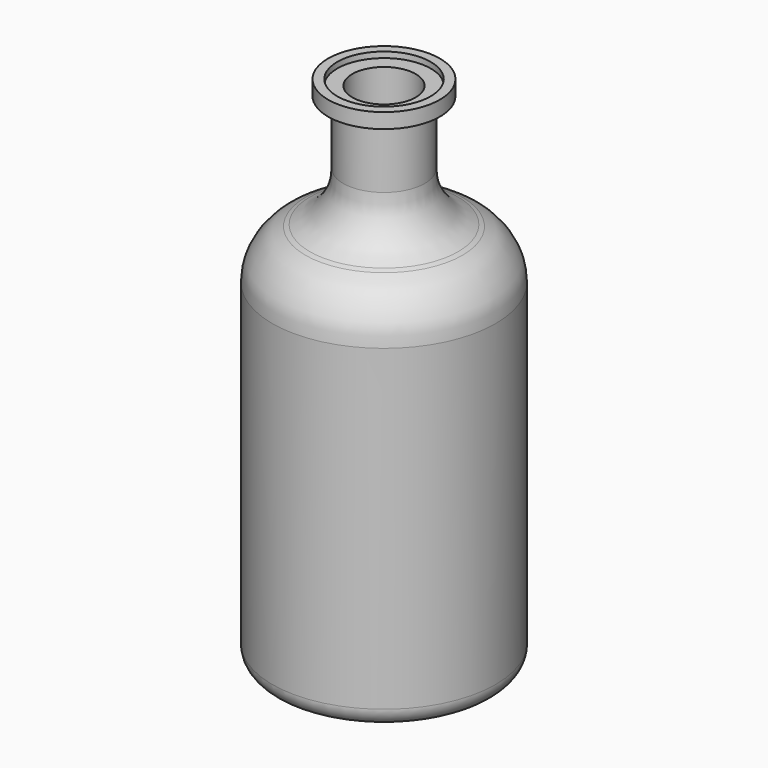
from build123d import *

# Parameters (mm, degrees)
F2_R = 14.7170458762
F3_R = 5.08
F4_T = -2.54


with BuildPart() as f1:
    # F0 (on Front) → F1 (revolve)
    with BuildSketch(Plane.XZ):
        Polygon((0, -76.023183763), (0, 66.5910243988), (-15.4687426984, 66.5910243988), (-15.4687426984, 62.4408759177), (-11.3185923547, 62.4408759177), (-11.3185923547, 34.8989777267), (-30.9374798089, 26.9759688526), (-30.9374798089, -76.023183763), align=None)
    revolve(axis=Axis((0, 0, -4.7160796821), (0, 0, -1)))

    # F2
    f2_edges = [f1.edges().sort_by_distance(p)[0] for p in [
        (30.93748, 0, 26.975969),
        (11.318592, 0, 34.898978),
    ]]
    fillet(f2_edges, radius=F2_R)

    # F3
    f3_edges = [f1.edges().sort_by_distance(p)[0] for p in [
        (30.93748, 0, -76.023184),
    ]]
    fillet(f3_edges, radius=F3_R)

    # F4
    f4_openings = [f1.faces().sort_by_distance(p)[0] for p in [
        (0, 0, 66.591024),
    ]]
    offset(amount=F4_T, openings=f4_openings, kind=Kind.INTERSECTION)


solid = f1.part
